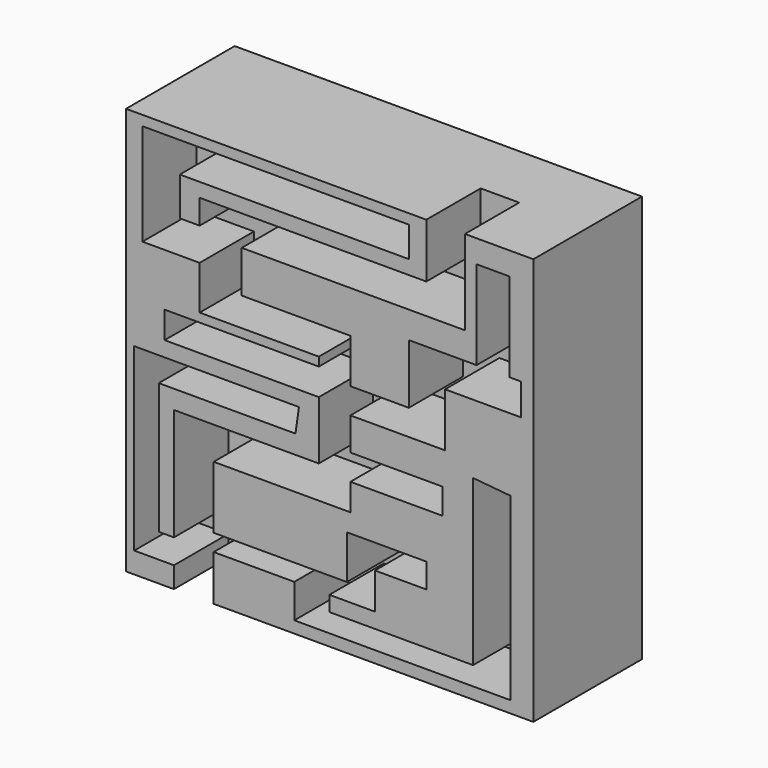
from build123d import *

# Parameters (mm, degrees)
F0_W     = 76.2
F0_H     = 76.2
F1_DEPTH = 25.4
F3_DEPTH = 12.7


with BuildPart() as f1:
    # F0 (on Front) → F1 (new body)
    with BuildSketch(Plane.XZ):
        with Locations((0.062458, -9.009712)):
            Rectangle(F0_W, F0_H)
    extrude(amount=F1_DEPTH)

    # F2 (on face) → F3 (cut)
    with BuildSketch(Plane.XZ.offset(25.4)):
        Polygon((-29.074673, -43.174796), (-29.074673, -47.109712), (-21.642048, -47.109712), (-21.642048, -38.584057), (-6.558197, -38.584057), (-6.558197, -44.923648), (33.884019, -44.923648), (33.884019, -11.258238), (26.888607, -10.602417), (26.888607, -41.425943), (0, -41.425943), (0, -38.584057), (8.525654, -38.584057), (8.525654, -31.807255), (18.144343, -31.807255), (18.144343, -27.216518), (3.279097, -27.216518), (3.279097, -35.414262), (-21.642048, -35.414262), (-21.642048, -23.718812), (3.934919, -23.718812), (3.934919, -18.690862), (21.204835, -18.690862), (21.204835, -13.881517), (3.934919, -13.881517), (3.934919, -7.760533), (21.64205, -7.760533), (21.64205, 2.295369), (35.851475, 2.295369), (35.851475, 8.197745), (33.665411, 8.197745), (33.665411, 24.811845), (27.544426, 24.811845), (27.544426, 8.197745), (14.865247, 8.197745), (14.865247, -2.951189), (3.934919, -2.951189), (3.934919, 5.355861), (-16.395492, 5.355861), (-16.395492, 13.225697), (25.35836, 13.225697), (25.35836, 29.090288), (18.144343, 29.090288), (18.144343, 18.909467), (-24.265327, 18.909467), (-24.265327, 14.31873), (-27.981639, 14.31873), (-27.981639, 21.532746), (14.865247, 21.532746), (14.865247, 27.216518), (-34.977049, 27.216518), (-34.977049, 8.197745), (-24.265327, 8.197745), (-24.265327, 0), (-1.967459, 0), (-1.967459, -1.639549), (-30.823525, -1.639549), (-30.823525, -6.6675), (-1.967459, -6.6675), (-1.967459, -17.597828), (-29.074673, -17.597828), (-29.074673, -38.584057), (-31.916559, -38.584057), (-31.916559, -14.100123), (-6.339591, -14.100123), (-5.683769, -9.509386), (-36.507297, -9.509386), (-36.507297, -43.174796), align=None)
        with BuildLine():
            Line((2e-06, 61.738352), (0, 55.198155))
            ThreePointArc((0, 55.198155), (1.854865, 58.468253), (2e-06, 61.738352))
        make_face()
    extrude(amount=-F3_DEPTH, mode=Mode.SUBTRACT)


solid = f1.part
